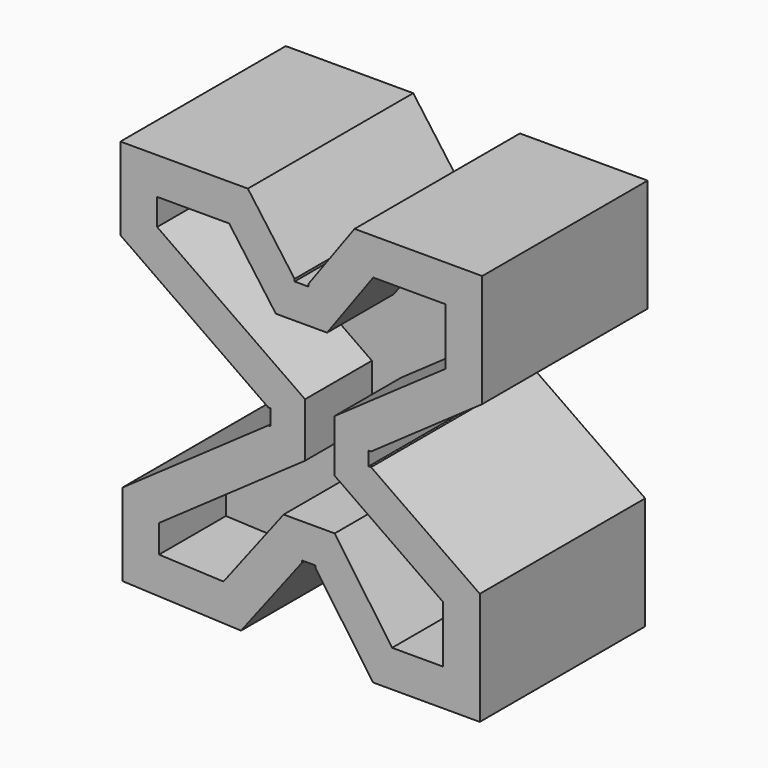
from build123d import *

# Parameters (mm, degrees)
F1_DEPTH = 45
F2_DEPTH = 8.6
F3_DEPTH = 1
F4_DEPTH = 1
F5_DEPTH = 1
F6_DEPTH = 1


with BuildPart() as f1:
    # F0 (on Front) → F1 (new body, symmetric)
    with BuildSketch(Plane.XZ):
        Polygon((-25.1739548425, 70.6691186362), (-80.6739548425, 70.6691186362), (-80.6739548425, 34.7691186362), (-16.2886041614, -10.313989261), (-16.2886041614, -17.213989261), (-79.8548027982, -61.7235207218), (-79.8548027982, -97.5235207218), (-28.1532354406, -99.7282786083), (-1.7071597672, -65.19054444), (4.2928402328, -65.19054444), (29.3007728577, -100.905573571), (75.8007728577, -100.905573571), (75.8007728577, -51.805573571), (28.4537846978, -18.6528555499), (28.4537846978, -12.6528555499), (76.8656705152, 21.2455118385), (76.8656705152, 70.3455118385), (21.2656705152, 70.3455118385), (1.1634148868, 42.6771306308), (-4.8365851132, 42.6771306308), align=None)
        Polygon((9.3158221158, 26.6771305582), (29.4180777442, 54.3455117658), (60.8656704426, 54.3455117658), (60.8656704426, 29.5745846851), (12.4537846251, -4.3237827032), (12.4537846251, -26.9819283965), (59.800772785, -60.1346464176), (59.800772785, -84.9055734983), (37.6298457043, -84.9055734983), (12.6219130794, -49.1905443673), (-9.6075851147, -49.1905443673), (-35.7930620707, -83.3879448947), (-63.8548027255, -82.1912820626), (-63.8548027255, -70.0525935685), (-0.2886040887, -25.5430621076), (-0.2886040887, -1.9849164143), (-64.6739547698, 43.0981914829), (-64.6739547698, 54.6691185636), (-33.3263620714, 54.6691185636), (-12.9889923421, 26.6771305582), align=None, mode=Mode.SUBTRACT)
    extrude(amount=F1_DEPTH, both=True)

    # F3 (cut): a face of the model
    f3_faces = [f1.faces().sort_by_distance(p)[0] for p in [
        (-1.8365851132, 0, 42.6771306308),
    ]]
    extrude(f3_faces, amount=-F3_DEPTH, mode=Mode.SUBTRACT)

    # F4 (cut): a face of the model
    f4_faces = [f1.faces().sort_by_distance(p)[0] for p in [
        (-16.2886041614, 0, -13.763989261),
    ]]
    extrude(f4_faces, amount=-F4_DEPTH, mode=Mode.SUBTRACT)

    # F5 (cut): a face of the model
    f5_faces = [f1.faces().sort_by_distance(p)[0] for p in [
        (28.4537846978, 0, -15.6528555499),
    ]]
    extrude(f5_faces, amount=-F5_DEPTH, mode=Mode.SUBTRACT)

    # F6 (cut): a face of the model
    f6_faces = [f1.faces().sort_by_distance(p)[0] for p in [
        (1.2928402328, 0, -65.19054444),
    ]]
    extrude(f6_faces, amount=-F6_DEPTH, mode=Mode.SUBTRACT)


with BuildPart() as f2:
    # F0 (on Front) → F2 (new body, symmetric)
    with BuildSketch(Plane.XZ):
        Polygon((60.8656704426, 54.3455117658), (29.4180777442, 54.3455117658), (9.3158221158, 26.6771305582), (-12.9889923421, 26.6771305582), (-33.3263620714, 54.6691185636), (-64.6739547698, 54.6691185636), (-64.6739547698, 43.0981914829), (-0.2886040887, -1.9849164143), (-0.2886040887, -25.5430621076), (-63.8548027255, -70.0525935685), (-63.8548027255, -82.1912820626), (-35.7930620707, -83.3879448947), (-9.6075851147, -49.1905443673), (12.6219130794, -49.1905443673), (37.6298457043, -84.9055734983), (59.800772785, -84.9055734983), (59.800772785, -60.1346464176), (12.4537846251, -26.9819283965), (12.4537846251, -4.3237827032), (60.8656704426, 29.5745846851), align=None)
    extrude(amount=F2_DEPTH, both=True)


solid = Compound([f1.part, f2.part])
